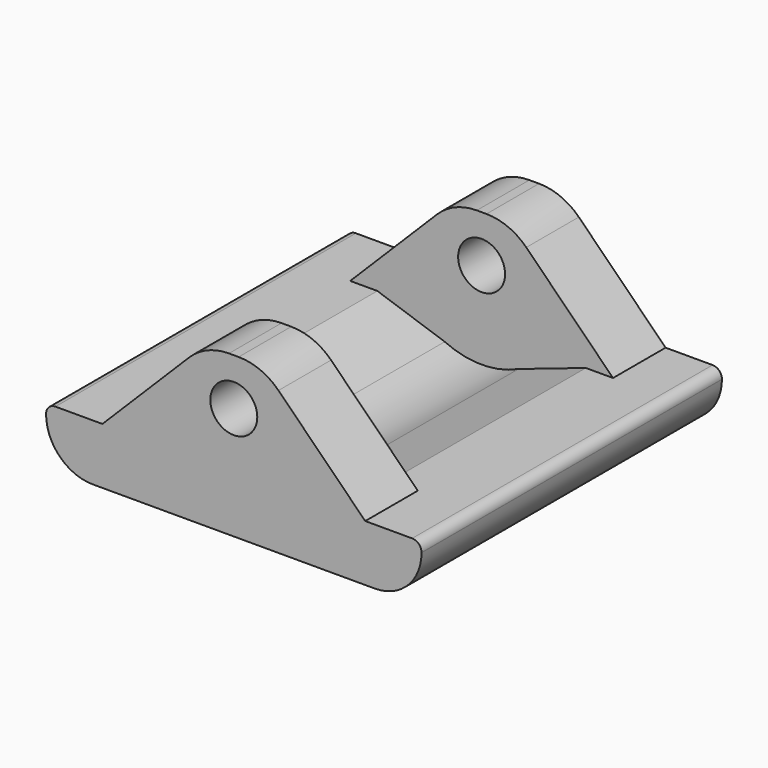
from build123d import *

# Parameters (mm, degrees)
CYLINDER222_R     = 1.25
CYLINDER222_DEPTH = 22
CYLINDER221_R     = 4.65
CYLINDER221_DEPTH = 13
BOX148_W          = 20
BOX148_H          = 20
BOX148_DEPTH      = 3
CHAMFER007_SIZE   = 2
BOX149_W          = 16
BOX149_H          = 3.5
BOX149_DEPTH      = 8.5
CHAMFER008_SIZE   = 6.5
BOX147_W          = 16
BOX147_H          = 3.5
BOX147_DEPTH      = 8.5
CHAMFER006_SIZE   = 6.5
FILLET064_R       = 3
FILLET063_R       = 2.49
FILLET062_R       = 0.5


with BuildPart() as cylinder494:
    # Cylinder222 → Cylinder222 (new body)
    with BuildSketch(Plane(origin=(320, 13, -68), x_dir=(1, 0, 0), z_dir=(0, -1, 0))):
        Circle(CYLINDER222_R)
    extrude(amount=CYLINDER222_DEPTH)


with BuildPart() as cylinder493:
    # Cylinder221 → Cylinder221 (new body)
    with BuildSketch(Plane(origin=(320, -4.5, -68), x_dir=(1, 0, 0), z_dir=(0, 1, 0))):
        Circle(CYLINDER221_R)
    extrude(amount=CYLINDER221_DEPTH)


with BuildPart() as chamfer007:
    # Box148 → Box148 (new body)
    with BuildSketch(Plane(origin=(310, -8, -74), x_dir=(1, 0, 0), z_dir=(0, 0, 1))):
        with Locations((10, 10)):
            Rectangle(BOX148_W, BOX148_H)
    extrude(amount=BOX148_DEPTH)

    # Cut156: cut Cylinder493
    add(cylinder493.part, mode=Mode.SUBTRACT)

    # Chamfer007
    chamfer007_edges = [chamfer007.edges().sort_by_distance(p)[0] for p in [
        (323.552816, 2, -71),
        (316.447184, 2, -71),
    ]]
    chamfer(chamfer007_edges, length=CHAMFER007_SIZE)


with BuildPart() as chamfer008:
    # Box149 → Box149 (new body)
    with BuildSketch(Plane(origin=(311, 8.5, -74), x_dir=(1, 0, 0), z_dir=(0, 0, 1))):
        with Locations((8, 1.75)):
            Rectangle(BOX149_W, BOX149_H)
    extrude(amount=BOX149_DEPTH)

    # Chamfer008
    chamfer008_edges = [chamfer008.edges().sort_by_distance(p)[0] for p in [
        (311, 10.25, -65.5),
        (327, 10.25, -65.5),
    ]]
    chamfer(chamfer008_edges, length=CHAMFER008_SIZE)


with BuildPart() as chamfer008_1:
    # Chamfer008 placement: moved
    add(chamfer008.part.moved(Location((1, 0, 0))))


with BuildPart() as supports_right_foot:
    # Box147 → Box147 (new body)
    with BuildSketch(Plane(origin=(311, 8.5, -74), x_dir=(1, 0, 0), z_dir=(0, 0, 1))):
        with Locations((8, 1.75)):
            Rectangle(BOX147_W, BOX147_H)
    extrude(amount=BOX147_DEPTH)

    # Chamfer006
    chamfer006_edges = [supports_right_foot.edges().sort_by_distance(p)[0] for p in [
        (311, 10.25, -65.5),
        (327, 10.25, -65.5),
    ]]
    chamfer(chamfer006_edges, length=CHAMFER006_SIZE)


with BuildPart() as supports_right_foot_1:
    # Chamfer006 placement: moved
    add(supports_right_foot.part.moved(Location((1, -16.5, 0))))

    # Fusion190: union Chamfer007, Chamfer008
    add(chamfer007.part)
    add(chamfer008_1.part)

    # Fillet064
    fillet064_edges = [supports_right_foot_1.edges().sort_by_distance(p)[0] for p in [
        (318.5, -6.25, -65.5),
        (321.5, -6.25, -65.5),
        (318.5, 10.25, -65.5),
        (321.5, 10.25, -65.5),
    ]]
    fillet(fillet064_edges, radius=FILLET064_R)

    # Fillet063
    fillet063_edges = [supports_right_foot_1.edges().sort_by_distance(p)[0] for p in [
        (330, 2, -74),
        (310, 2, -74),
    ]]
    fillet(fillet063_edges, radius=FILLET063_R)

    # Fillet062
    fillet062_edges = [supports_right_foot_1.edges().sort_by_distance(p)[0] for p in [
        (330, 2, -71),
        (310, 2, -71),
    ]]
    fillet(fillet062_edges, radius=FILLET062_R)

    # Cut155: cut Cylinder494
    add(cylinder494.part, mode=Mode.SUBTRACT)


with BuildPart() as supports_right_foot_2:
    # Cut155 placement: moved
    add(supports_right_foot_1.part.moved(Location((-77.3, 77, 16))))


solid = supports_right_foot_2.part
